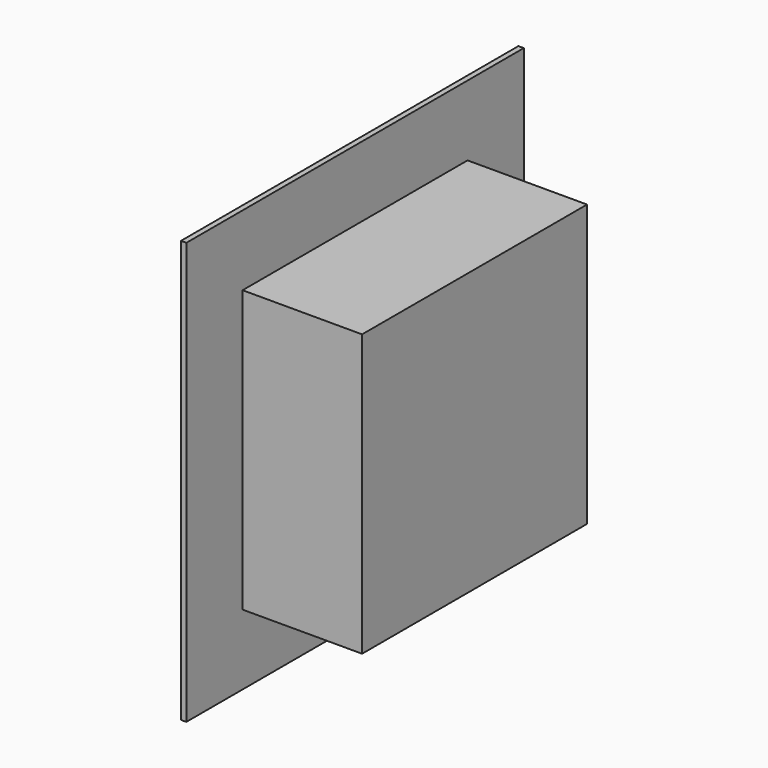
from build123d import *

# Parameters (mm, degrees)
F0_W     = 180
F0_H     = 180
F1_DEPTH = 2.3
F2_W     = 120
F2_H     = 120
F3_DEPTH = 51


with BuildPart() as f1:
    # F0 (on Right) → F1 (new body)
    with BuildSketch(Plane.YZ):
        Rectangle(F0_W, F0_H)
    extrude(amount=F1_DEPTH)

    # F2 (on face) → F3 (join)
    with BuildSketch(Plane.YZ.offset(2.3)):
        Rectangle(F2_W, F2_H)
    extrude(amount=F3_DEPTH)


solid = f1.part
